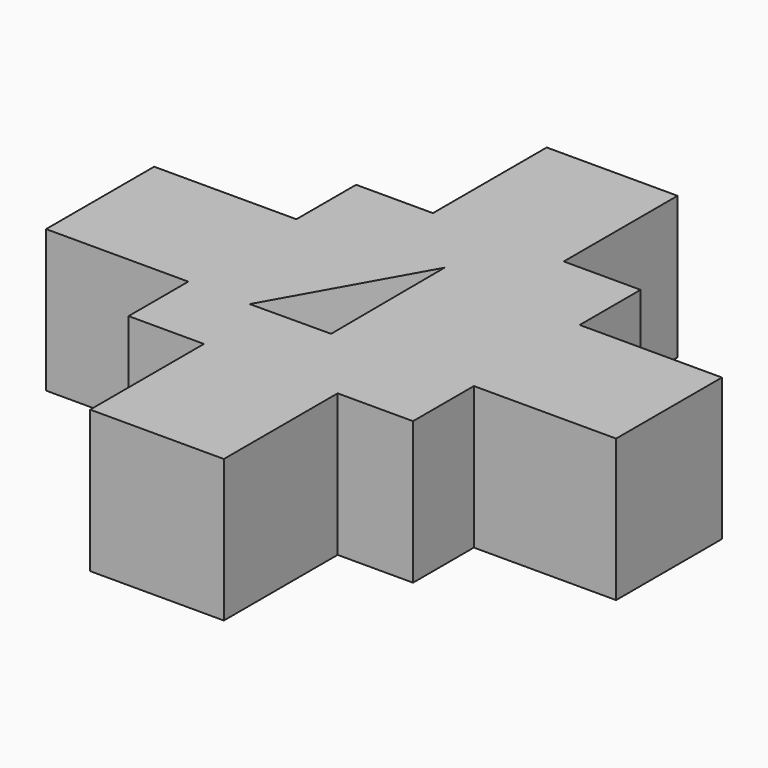
from build123d import *

# Parameters (mm, degrees)
F0_W     = 4.6
F0_H     = 10
F0_W_2   = 10
F0_H_2   = 4.75
F0_H_3   = 4.65
F0_W_3   = 4.7
F1_DEPTH = 10
F3_DEPTH = 5


with BuildPart() as f1:
    # F0 (on Top) → F1 (new body)
    with BuildSketch(Plane.XY):
        Polygon((5.4, 0), (0, 0), (0, -5.25), (0, -10), (0, -14.75), (0, -20), (5.3, -20), (10, -20), (14.7, -20), (20, -20), (20, -14.65), (20, -10), (20, -5.35), (20, 0), (14.6, 0), (10, 0), align=None)
        with Locations((7.7, 5)):
            Rectangle(F0_W, F0_H)
        with Locations((-5, -7.625)):
            Rectangle(F0_W_2, F0_H_2)
        with Locations((12.3, 5)):
            Rectangle(F0_W, F0_H)
        with Locations((-5, -12.375)):
            Rectangle(F0_W_2, F0_H_2)
        with Locations((25, -7.675)):
            Rectangle(F0_W_2, F0_H_3)
        with Locations((7.65, -25)):
            Rectangle(F0_W_3, F0_H)
        with Locations((25, -12.325)):
            Rectangle(F0_W_2, F0_H_3)
        with Locations((12.35, -25)):
            Rectangle(F0_W_3, F0_H)
    extrude(amount=F1_DEPTH)

    # F2 (on face) → F3 (cut)
    with BuildSketch(Plane.XY.offset(10)):
        Polygon((4.301277, -14.728494), (10, -14.7), (9.949831, -4.666128), align=None)
    extrude(amount=-F3_DEPTH, mode=Mode.SUBTRACT)


solid = f1.part
